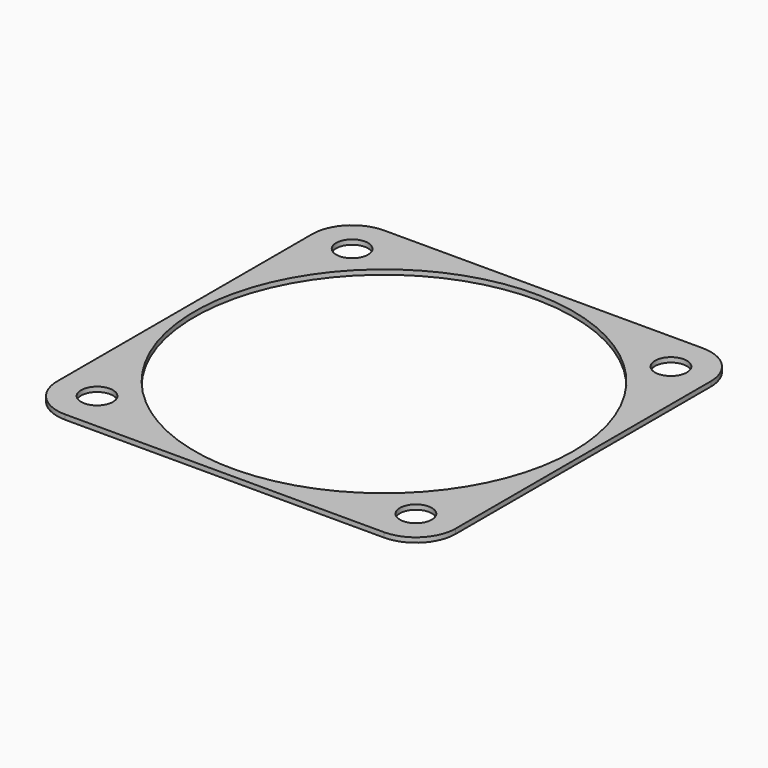
from build123d import *

# Parameters (mm, degrees)
F0_R     = 2
F0_R_2   = 23.75
F1_DEPTH = 0.6


with BuildPart() as f1:
    # F0 (on Top) → F1 (new body)
    with BuildSketch(Plane.XY):
        with BuildLine():
            Line((-45, 0), (-5, 0))
            ThreePointArc((-5, 0), (-1.464466, 1.464466), (0, 5))
            Line((0, 5), (0, 45))
            ThreePointArc((0, 45), (-1.464466, 48.535534), (-5, 50))
            Line((-5, 50), (-45, 50))
            ThreePointArc((-45, 50), (-48.535534, 48.535534), (-50, 45))
            Line((-50, 45), (-50, 5))
            ThreePointArc((-50, 5), (-48.535534, 1.464466), (-45, 0))
        make_face()
        with Locations((-45, 5)):
            Circle(F0_R, mode=Mode.SUBTRACT)
        with Locations((-5, 5)):
            Circle(F0_R, mode=Mode.SUBTRACT)
        with Locations((-45, 45)):
            Circle(F0_R, mode=Mode.SUBTRACT)
        with Locations((-25, 25)):
            Circle(F0_R_2, mode=Mode.SUBTRACT)
        with Locations((-5, 45)):
            Circle(F0_R, mode=Mode.SUBTRACT)
    extrude(amount=F1_DEPTH)


solid = f1.part
